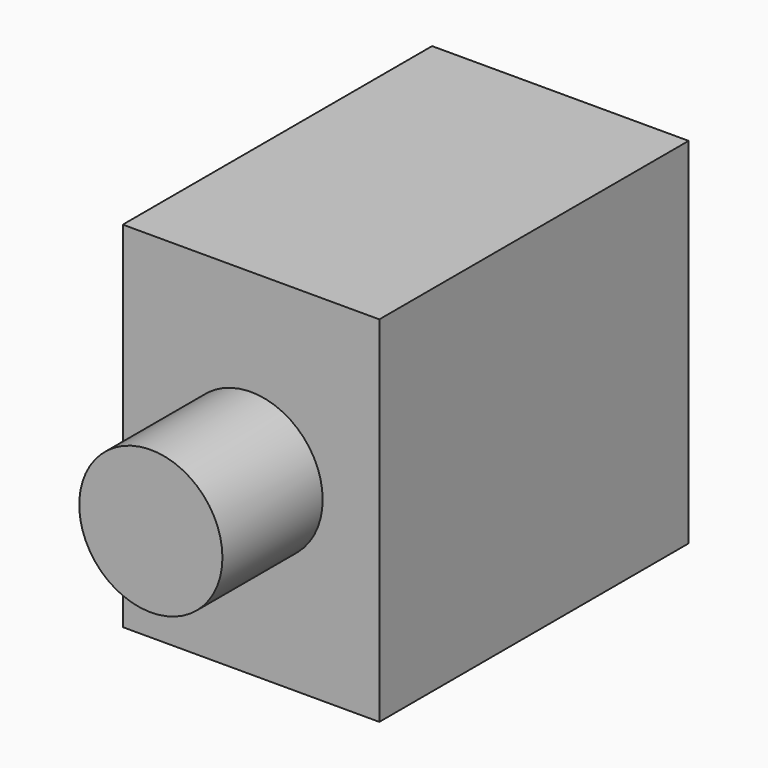
from build123d import *

# Parameters (mm, degrees)
F0_W     = 21.5
F0_H     = 29.7
F1_DEPTH = 32.4
F2_R     = 6
F3_DEPTH = 10.5


with BuildPart() as f1:
    # F0 (on Front) → F1 (new body)
    with BuildSketch(Plane.XZ):
        Rectangle(F0_W, F0_H)
    extrude(amount=-F1_DEPTH)

    # F2 (on face) → F3 (join)
    with BuildSketch(Plane.XZ):
        Circle(F2_R)
    extrude(amount=F3_DEPTH)


solid = f1.part
